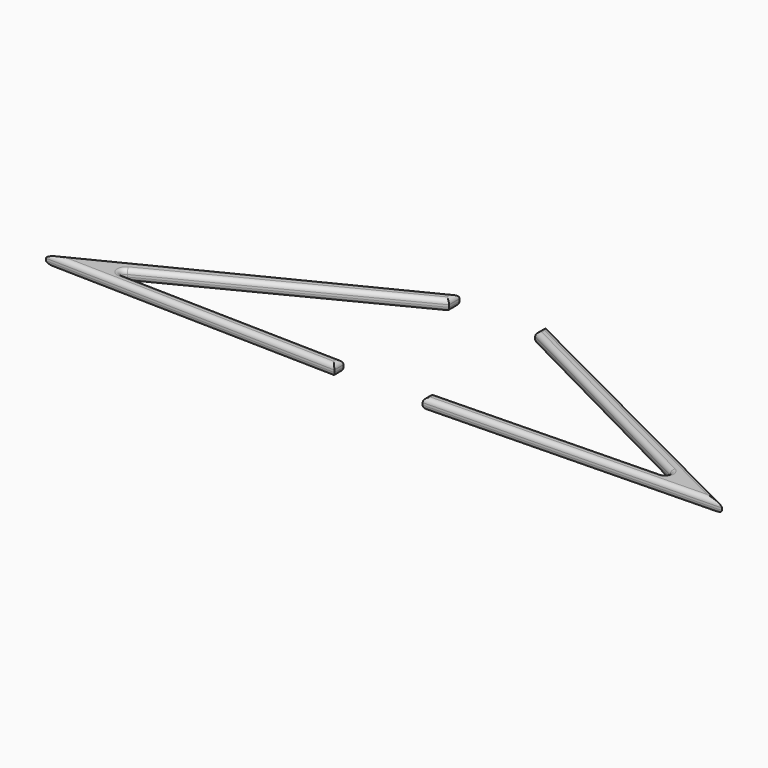
from build123d import *

# Parameters (mm, degrees)
F1_DEPTH = 25
F2_R     = 10


with BuildPart() as f1:
    # F0 (on Top) → F1 (new body)
    with BuildSketch(Plane.XY):
        Polygon((763.750374, -1199.034214), (97.341686, -863.501491), (97.341686, -893.601477), (648.30035, -1175.661564), (99.794425, -1188.725471), (99.794425, -1214.619978), align=None)
    extrude(amount=F1_DEPTH)

    # F2
    f2_edges = [f1.edges().sort_by_distance(p)[0] for p in [
        (430.54603, -1031.267852, 25),
        (97.341686, -878.551484, 25),
        (372.821018, -1034.631521, 25),
        (374.047387, -1182.193518, 25),
        (99.794425, -1201.672725, 25),
        (431.7724, -1206.827096, 25),
        (430.54603, -1031.267852, 0),
        (97.341686, -878.551484, 0),
        (372.821018, -1034.631521, 0),
        (374.047387, -1182.193518, 0),
        (99.794425, -1201.672725, 0),
        (431.7724, -1206.827096, 0),
        (648.30035, -1175.661564, 12.5),
    ]]
    fillet(f2_edges, radius=F2_R)


with BuildPart() as f3_1:
    # F3: instance of F1
    add(f1.part.mirror(Plane.YZ))


solid = Compound([f1.part, f3_1.part])
